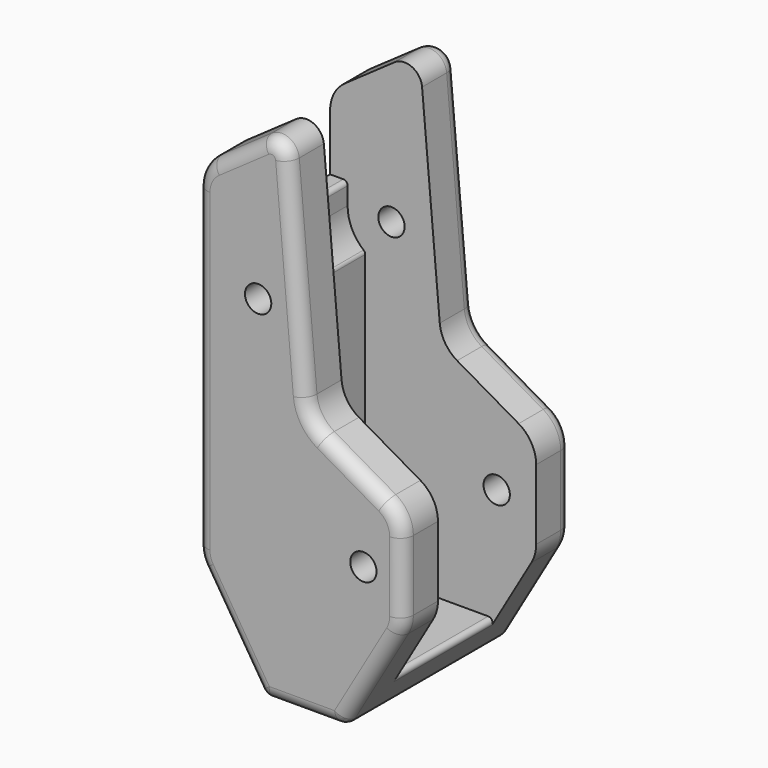
from build123d import *

# Parameters (mm, degrees)
SKETCH036_R     = 1.5
PAD021_DEPTH    = 24
FILLET007_R     = 1.5
POCKET013_DEPTH = 14
FILLET008_R     = 0.5


with BuildPart() as part:
    # Sketch036 → Pad021 (new body)
    with BuildSketch(Plane.XZ):
        with BuildLine():
            Line((-59.294306, 24.684125), (-53.647153, 28.638304))
            ThreePointArc((-50.507611, 27.174311), (-51.654763, 28.812616), (-53.647153, 28.638304))
            Line((-50.507611, 27.174311), (-48.491026, 4.124639))
            ThreePointArc((-48.491026, 4.124639), (-47.879813, 2.324063), (-46.506247, 1.00916))
            Line((-39.5, -3.035898), (-46.506247, 1.00916))
            ThreePointArc((-37.5, -6.5), (-38.035898, -4.5), (-39.5, -3.035898))
            Line((-37.5, -6.5), (-37.5, -14.5))
            ThreePointArc((-38.041032, -16.508866), (-37.637626, -15.540223), (-37.5, -14.5))
            Line((-38.041032, -16.508866), (-44.135258, -27.002216))
            ThreePointArc((-45, -27.5), (-44.501109, -27.366665), (-44.135258, -27.002216))
            Line((-45, -27.5), (-53, -27.5))
            ThreePointArc((-53.846615, -27.032205), (-53.483629, -27.375273), (-53, -27.5))
            Line((-53.846615, -27.032205), (-60.386462, -16.628821))
            ThreePointArc((-61, -14.5), (-60.843556, -15.607735), (-60.386462, -16.628821))
            Line((-61, -14.5), (-61, 21.407517))
            ThreePointArc((-59.294306, 24.684125), (-60.548043, 23.254511), (-61, 21.407517))
        make_face()
        with Locations((-54, 12.5)):
            Circle(SKETCH036_R, mode=Mode.SUBTRACT)
        with Locations((-42, -10.5)):
            Circle(SKETCH036_R, mode=Mode.SUBTRACT)
    extrude(amount=PAD021_DEPTH)

    # Fillet007
    fillet007_edges = [part.edges().sort_by_distance(p)[0] for p in [
        (-60.548043, 0, 23.254511),
        (-60.548043, -24, 23.254511),
    ]]
    fillet(fillet007_edges, radius=FILLET007_R)

    # Sketch037 (on Face12 of Fillet007) → Pocket013 (cut)
    with BuildSketch(Plane.XZ.offset(19)):
        with BuildLine():
            Line((-37.475618, -23.5), (-51.342359, -23.5))
            Line((-51.342359, -23.5), (-57, -14.5))
            Line((-57, -14.5), (-57, 8.5))
            ThreePointArc((-59, 12.5), (-58.472136, 10.263932), (-57, 8.5))
            Line((-59, 12.5), (-59, 15))
            Line((-59, 15), (-79, 15))
            Line((-79, 15), (-79, 35))
            Line((-79, 35), (-15.733307, 35))
            Line((-15.733307, 35), (-15.733307, -20.5))
            Line((-15.733307, -20.5), (-35.733307, -20.5))
            Line((-35.733307, -20.5), (-37.475618, -23.5))
        make_face()
    extrude(amount=-POCKET013_DEPTH, mode=Mode.SUBTRACT)

    # Fillet008
    fillet008_edges = [part.edges().sort_by_distance(p)[0] for p in [
        (-57, -12, 8.5),
        (-59, -12, 15),
        (-57, -12, -14.5),
        (-51.342359, -12, -23.5),
        (-42.101275, -12, -23.5),
    ]]
    fillet(fillet008_edges, radius=FILLET008_R)


with BuildPart() as part_1:
    # Body003 placement: moved
    add(part.part.moved(Location((0, 33, 0))))


with BuildPart() as part_2:
    # Clone172 placement: moved
    add(part_1.part.moved(Location((-47, 5, 7.5))))


solid = part_2.part
